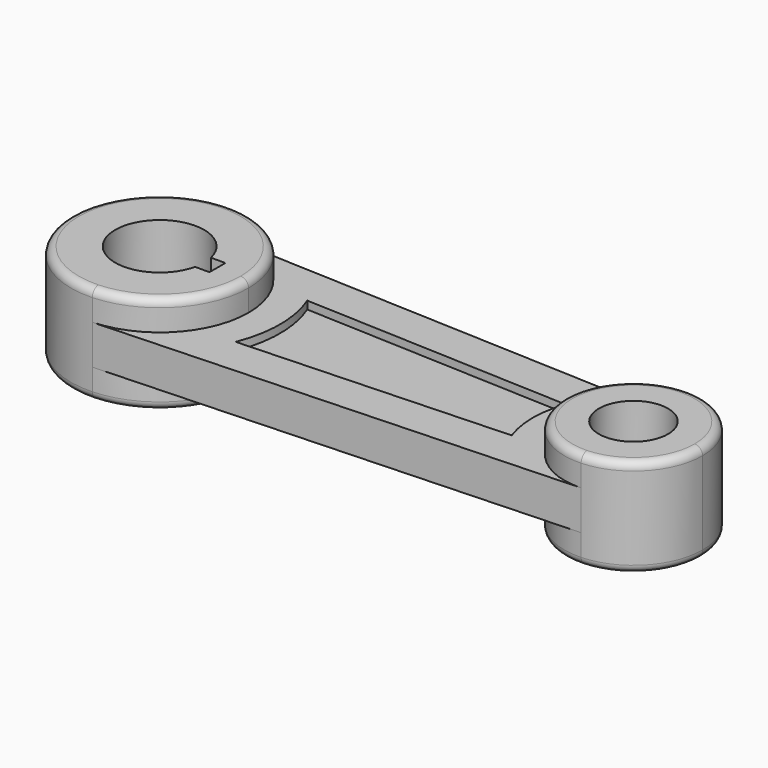
from build123d import *

# Parameters (mm, degrees)
F6_DEPTH = 12.5
F0_R     = 21.9
F0_R_2   = 28.15
F1_DEPTH = 31.25
F2_DEPTH = 5
F4_DEPTH = 130.647779
F5_R     = 5


with BuildPart() as f6:
    # F0 (on Top) → F6 (new body)
    with BuildSketch(Plane.XY):
        with BuildLine():
            ThreePointArc((-78.54655, 56.201151), (-40.29536, 38.937299), (-24.6403, 0))
            ThreePointArc((-24.6403, 0), (-40.29536, -38.937299), (-78.54655, -56.201151))
            Line((-78.54655, -56.201151), (220.932616, -43.712006))
            ThreePointArc((220.932616, -43.712006), (175.3597, 0), (220.932616, 43.712006))
            Line((220.932616, 43.712006), (-78.54655, 56.201151))
        make_face()
    extrude(amount=F6_DEPTH)

    # F0 (on Top) → F1 (join)
    with BuildSketch(Plane.XY):
        with BuildLine():
            ThreePointArc((262.8597, 0), (250.683543, 30.284566), (220.932616, 43.712006))
            ThreePointArc((220.932616, 43.712006), (175.3597, 0), (220.932616, -43.712006))
            ThreePointArc((220.932616, -43.712006), (250.683543, -30.284566), (262.8597, 0))
        make_face()
        with Locations((219.1097, 0)):
            Circle(F0_R, mode=Mode.SUBTRACT)
        with BuildLine():
            ThreePointArc((-78.54655, -56.201151), (-40.29536, -38.937299), (-24.6403, 0))
            ThreePointArc((-24.6403, 0), (-40.29536, 38.937299), (-78.54655, 56.201151))
            ThreePointArc((-78.54655, 56.201151), (-137.1403, 0), (-78.54655, -56.201151))
        make_face()
        with Locations((-80.8903, 0)):
            Circle(F0_R_2, mode=Mode.SUBTRACT)
    extrude(amount=F1_DEPTH)

    # F7 (on face) → F2 (cut)
    with BuildSketch(Plane.XY.offset(12.5)):
        with BuildLine():
            ThreePointArc((159.013575, -21.272479), (155.3597, 0), (159.013575, 21.272479))
            Line((159.013575, 21.272479), (-10.09648, 28.324856))
            ThreePointArc((-10.09648, 28.324856), (-4.6403, 0), (-10.09648, -28.324856))
            Line((-10.09648, -28.324856), (159.013575, -21.272479))
        make_face()
    extrude(amount=-F2_DEPTH, mode=Mode.SUBTRACT)

    # F3 (on face) → F4 (cut)
    with BuildSketch(Plane.XY.offset(31.25)):
        Polygon((-44.3303, 6.3), (-80.8903, 6.3), (-80.8903, 0), (-80.8903, -6.3), (-44.3303, -6.3), (-44.3303, 0), align=None)
    extrude(amount=-F4_DEPTH, mode=Mode.SUBTRACT)

    # F5
    f5_edges = [f6.edges().sort_by_distance(p)[0] for p in [
        (-83.23405, 56.201151, 31.25),
        (217.286783, 43.712006, 31.25),
    ]]
    fillet(f5_edges, radius=F5_R)

    # F8: F6 across face


with BuildPart() as f6_1:
    add(f6.part)
    add(f6.part.mirror(Plane(origin=(57.759203, 0, 0), x_dir=(1, 0, 0), z_dir=(0, 0, -1))))


solid = f6_1.part
